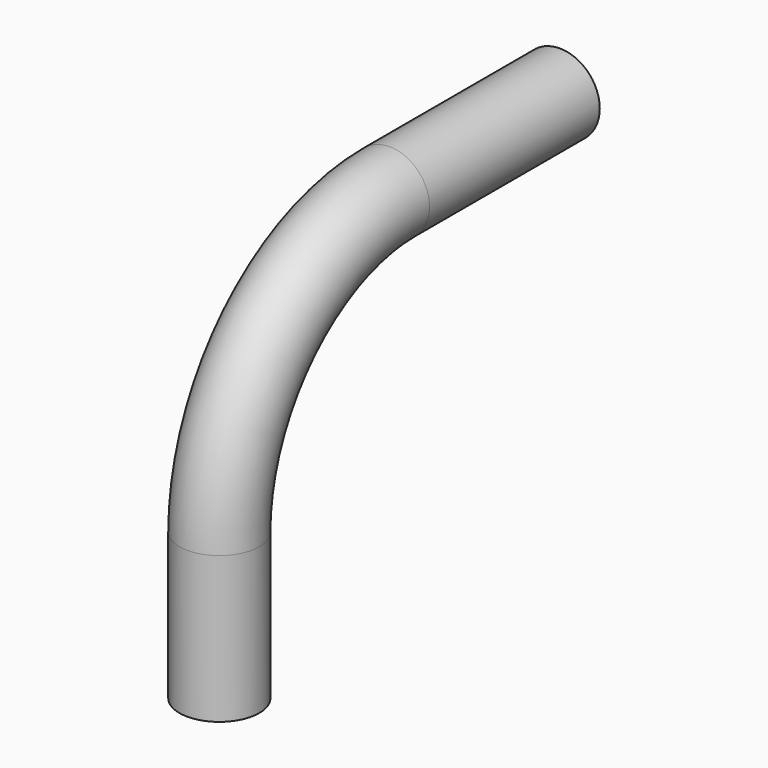
from build123d import *

# Parameters (mm, degrees)
F0_R     = 2.38125
F1_ANGLE = 90
F2_DEPTH = 8.7376
F3_DEPTH = 12.7


with BuildPart() as f1:
    # F0 (on Front) → F1 (revolve)
    with BuildSketch(Plane.XZ):
        Circle(F0_R)
    revolve(axis=Axis((1.0816315189, 0, -12.7), (1, 0, 0)), revolution_arc=F1_ANGLE)

    # F2 (add): a face of the model
    f2_faces = [f1.faces().sort_by_distance(p)[0] for p in [
        (0, -12.7, -12.7),
    ]]
    extrude(f2_faces, amount=F2_DEPTH)

    # F3 (add): a face of the model
    f3_faces = [f1.faces().sort_by_distance(p)[0] for p in [
        (0, 0, 0),
    ]]
    extrude(f3_faces, amount=F3_DEPTH)


solid = f1.part
